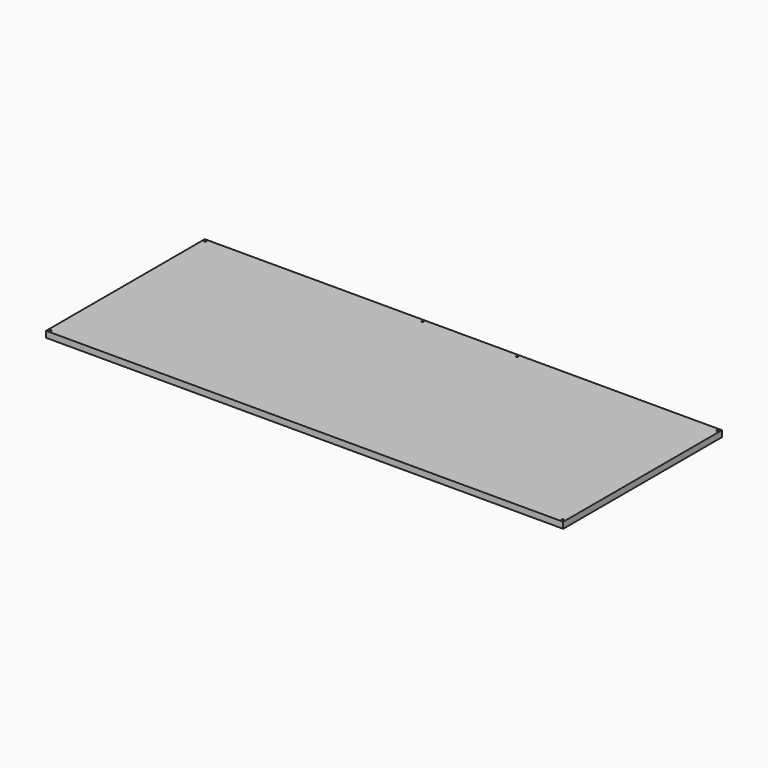
from build123d import *

# Parameters (mm, degrees)
SKETCH_W  = 834
SKETCH_H  = 320
SKETCH_R  = 1.5
PAD_DEPTH = 10


with BuildPart() as part:
    # Sketch → Pad (new body)
    with BuildSketch(Plane.XY):
        Rectangle(SKETCH_W, SKETCH_H)
        with Locations((-413, -156)):
            Circle(SKETCH_R, mode=Mode.SUBTRACT)
        with Locations((-413, 156)):
            Circle(SKETCH_R, mode=Mode.SUBTRACT)
        with Locations((413, -156)):
            Circle(SKETCH_R, mode=Mode.SUBTRACT)
        with Locations((413, 156)):
            Circle(SKETCH_R, mode=Mode.SUBTRACT)
        with Locations((-62.611742, 156)):
            Circle(SKETCH_R, mode=Mode.SUBTRACT)
        with Locations((89.788258, 156)):
            Circle(SKETCH_R, mode=Mode.SUBTRACT)
    extrude(amount=PAD_DEPTH)


solid = part.part
